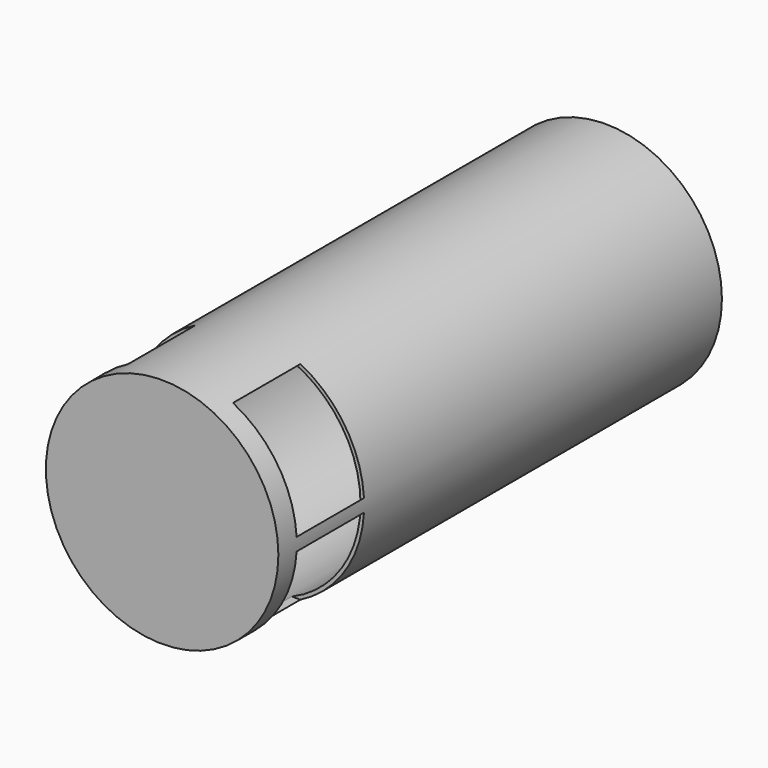
from build123d import *

# Parameters (mm, degrees)
F0_R     = 41.275
F1_DEPTH = 101.6
F2_W     = 82.747999
F2_H     = 29.89918
F3_DEPTH = 36.83
F4_R     = 40.005
F5_DEPTH = 98.044
F6_R     = 41.275
F7_DEPTH = 6.35


with BuildPart() as f1:
    # F0 (on Front) → F1 (new body, symmetric)
    with BuildSketch(Plane.XZ):
        Circle(F0_R)
    extrude(amount=F1_DEPTH, both=True)

    # F2 (on Top) → F3 (cut, symmetric)
    with BuildSketch(Plane.XY):
        with Locations((-0.162097, -78.476146)):
            Rectangle(F2_W, F2_H)
    extrude(amount=F3_DEPTH, both=True, mode=Mode.SUBTRACT)

    # F4 (on Front) → F5 (cut, symmetric)
    with BuildSketch(Plane.XZ):
        Circle(F4_R)
    extrude(amount=F5_DEPTH, both=True, mode=Mode.SUBTRACT)

    # F6 (on face) → F7 (cut, symmetric)
    with BuildSketch(Plane(origin=(0, 101.6, 0), x_dir=(-1, 0, 0), z_dir=(0, 1, 0))):
        Circle(F6_R)
    extrude(amount=F7_DEPTH, both=True, mode=Mode.SUBTRACT)


solid = f1.part
